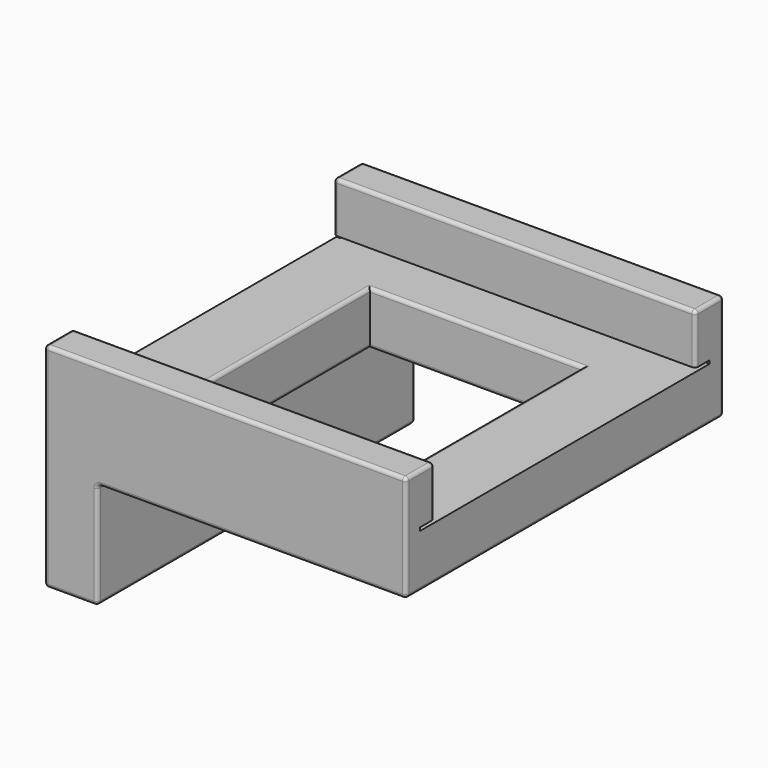
from build123d import *

# Parameters (mm, degrees)
BOX_W            = 1
BOX_H            = 4
BOX_DEPTH        = 3
BOX001_W         = 1
BOX001_H         = 4
BOX001_DEPTH     = 3
SKETCH003_W      = 60
SKETCH003_H      = 65
EXTRUDE003_DEPTH = 15
EXTRUDE001_DEPTH = 51
SKETCH_W         = 102
SKETCH_H         = 102
EXTRUDE_DEPTH    = 15
SKETCH002_W      = 15
SKETCH002_H      = 30
EXTRUDE002_DEPTH = 56
FILLET_R         = 1
FILLET001_R      = 1


with BuildPart() as cube:
    # Box → Box (new body)
    with BuildSketch(Plane(origin=(-51, 47, 14.7), x_dir=(1, 0, 0), z_dir=(0, 0, 1))):
        with Locations((0.5, 2)):
            Rectangle(BOX_W, BOX_H)
    extrude(amount=BOX_DEPTH)


with BuildPart() as cube001:
    # Box001 → Box001 (new body)
    with BuildSketch(Plane(origin=(-51, -51, 14.7), x_dir=(1, 0, 0), z_dir=(0, 0, 1))):
        with Locations((0.5, 2)):
            Rectangle(BOX001_W, BOX001_H)
    extrude(amount=BOX001_DEPTH)


with BuildPart() as extrude003:
    # Sketch003 (on Face42 of Fillet) → Extrude003 (new body)
    with BuildSketch(Plane.XY.offset(15)):
        Rectangle(SKETCH003_W, SKETCH003_H)
    extrude(amount=-EXTRUDE003_DEPTH)


with BuildPart() as extrude001:
    # Sketch001 (on Sketch) → Extrude001 (new body, symmetric)
    with BuildSketch(Plane.YZ):
        Polygon((-56, 0), (-56, 30), (-46, 30), (-46, 15.9), (-51, 15.9), (-51, 15), (-46, 15), (-46, 0), align=None)
        Polygon((56, 0), (56, 30), (46, 30), (46, 15.9), (51, 15.9), (51, 15), (46, 15), (46, 0), align=None)
    extrude(amount=EXTRUDE001_DEPTH, both=True)


with BuildPart() as fusion:
    # Sketch → Extrude (new body)
    with BuildSketch(Plane.XY):
        Rectangle(SKETCH_W, SKETCH_H)
    extrude(amount=EXTRUDE_DEPTH)

    # Fusion: union Extrude001
    add(extrude001.part)


with BuildPart() as fusion002:
    # Sketch002 → Extrude002 (new body, symmetric)
    with BuildSketch(Plane.XZ):
        with Locations((-43.5, -15)):
            Rectangle(SKETCH002_W, SKETCH002_H)
    extrude(amount=EXTRUDE002_DEPTH, both=True)

    # Fusion001: union Fusion
    add(fusion.part)

    # Fillet
    fillet_edges = [fusion002.edges().sort_by_distance(p)[0] for p in [
        (-36, 0, 0),
        (-36, 0, -30),
        (-36, 56, -15),
        (-36, -56, -15),
        (-51, 0, -30),
        (-43.5, 56, -30),
        (-43.5, -56, -30),
        (51, 0, 0),
        (7.5, -56, 0),
        (7.5, 56, 0),
        (-51, 56, 0),
        (0, 56, 30),
        (51, 56, 15),
        (0, 46, 30),
        (51, 46, 22.95),
        (-51, 46, 22.95),
        (51, 51, 30),
        (-51, 51, 30),
        (51, -56, 15),
        (0, -56, 30),
        (-51, -56, 0),
        (0, -46, 30),
        (51, -51, 30),
        (-51, -51, 30),
        (51, -46, 22.95),
        (-51, -46, 22.95),
    ]]
    fillet(fillet_edges, radius=FILLET_R)

    # Cut: cut Extrude003
    add(extrude003.part, mode=Mode.SUBTRACT)

    # Fillet001
    fillet001_edges = [fusion002.edges().sort_by_distance(p)[0] for p in [
        (0, 32.5, 0),
        (30, 0, 0),
        (0, -32.5, 0),
        (-30, 0, 0),
        (0, 32.5, 15),
        (30, 0, 15),
        (0, -32.5, 15),
        (-30, 0, 15),
    ]]
    fillet(fillet001_edges, radius=FILLET001_R)

    # Fusion002: union Cube, Cube001
    add(cube.part)
    add(cube001.part)


solid = fusion002.part
